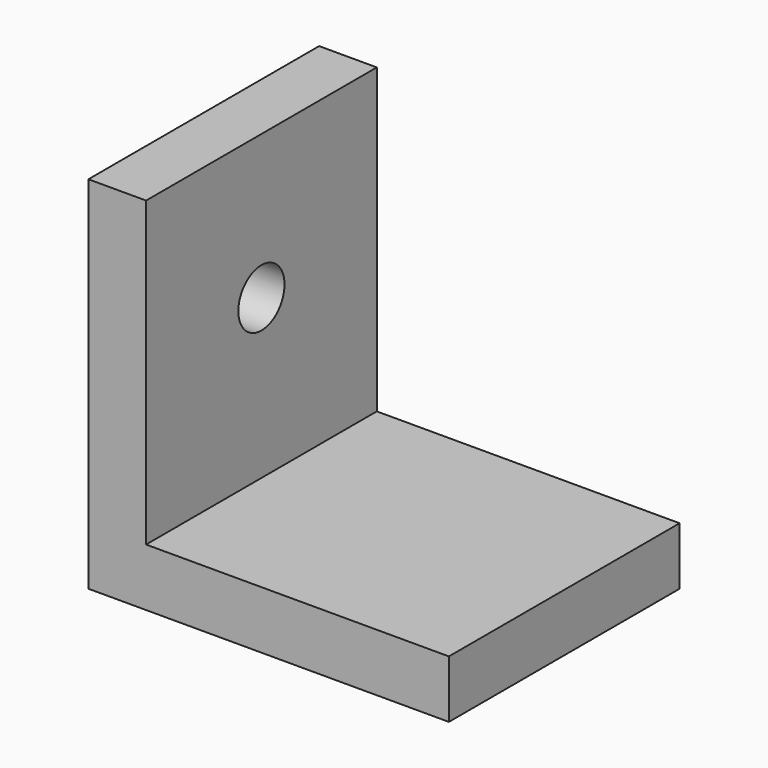
from build123d import *

# Parameters (mm, degrees)
F1_DEPTH = 20
F3_D     = 4


with BuildPart() as f1:
    # F0 (on Front) → F1 (new body)
    with BuildSketch(Plane.XZ):
        Polygon((-25, 0), (0, 0), (0, 4), (-21, 4), (-21, 25), (-25, 25), align=None)
    extrude(amount=F1_DEPTH)

    # F3 (through all)
    with Locations(Plane(origin=(-25, 0, 0), x_dir=(0, -1, 0), z_dir=(-1, 0, 0))):
        with Locations((10, 15)):
            Hole(F3_D / 2)


solid = f1.part
